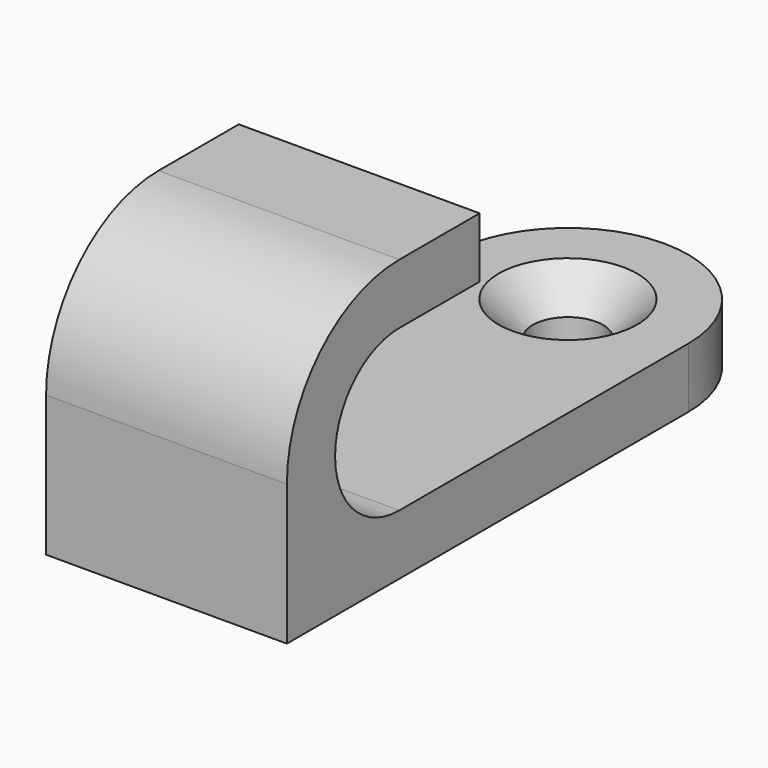
from build123d import *

# Parameters (mm, degrees)
F1_DEPTH = 3
F3_DEPTH = 12
F4_SIZE  = 1.7


with BuildPart() as f1:
    # F0 (on Top) → F1 (new body)
    with BuildSketch(Plane.XY):
        with BuildLine():
            Line((6, -12.5), (6, 12.5))
            ThreePointArc((6, 12.5), (0, 6.5), (-6, 12.5))
            Line((-6, 12.5), (-6, -12.5))
            Line((-6, -12.5), (6, -12.5))
        make_face()
        with BuildLine():
            ThreePointArc((-1.75, 12.5), (0, 14.25), (1.75, 12.5))
            Line((1.75, 12.5), (6, 12.5))
            ThreePointArc((6, 12.5), (0, 18.5), (-6, 12.5))
            Line((-6, 12.5), (-1.75, 12.5))
        make_face()
        with BuildLine():
            Line((6, 12.5), (1.75, 12.5))
            ThreePointArc((1.75, 12.5), (0, 10.75), (-1.75, 12.5))
            Line((-1.75, 12.5), (-6, 12.5))
            ThreePointArc((-6, 12.5), (0, 6.5), (6, 12.5))
        make_face()
    extrude(amount=F1_DEPTH)

    # F2 (on face) → F3 (join, through all)
    with BuildSketch(Plane(origin=(-6, 0, 0), x_dir=(0, -1, 0), z_dir=(-1, 0, 0))):
        with BuildLine():
            Line((12.5, 3), (12.5, 7))
            ThreePointArc((12.5, 7), (10.4497474683, 11.9497474683), (5.5, 14))
            Line((5.5, 14), (0.5, 14))
            Line((0.5, 14), (0.5, 11))
            Line((0.5, 11), (5.5, 11))
            ThreePointArc((5.5, 11), (9.5, 7), (5.5, 3))
            Line((5.5, 3), (12.5, 3))
        make_face()
    extrude(amount=-F3_DEPTH)

    # F4
    f4_edges = [f1.edges().sort_by_distance(p)[0] for p in [
        (1.75, 12.5, 3),
    ]]
    chamfer(f4_edges, length=F4_SIZE)


solid = f1.part
